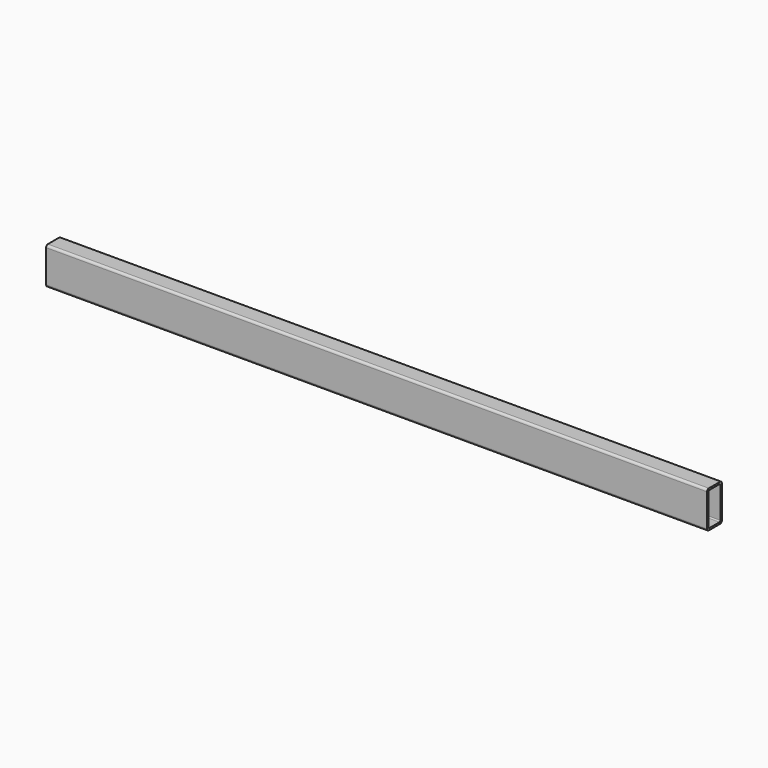
from build123d import *

# Parameters (mm, degrees)
F0_W     = 50
F0_H     = 100
F0_W_2   = 40.000004
F0_H_2   = 90.000004
F1_DEPTH = 890
F2_R     = 3
F3_R     = 6


with BuildPart() as f1:
    # F0 (on Right) → F1 (new body, symmetric)
    with BuildSketch(Plane.YZ):
        Rectangle(F0_W, F0_H)
        Rectangle(F0_W_2, F0_H_2, mode=Mode.SUBTRACT)
    extrude(amount=F1_DEPTH, both=True)

    # F2
    f2_edges = [f1.edges().sort_by_distance(p)[0] for p in [
        (0, 20.000002, 45.000002),
        (0, 20.000002, -45.000002),
        (0, -20.000002, -45.000002),
        (0, -20.000002, 45.000002),
    ]]
    fillet(f2_edges, radius=F2_R)

    # F3
    f3_edges = [f1.edges().sort_by_distance(p)[0] for p in [
        (0, 25, -50),
        (0, 25, 50),
        (0, -25, 50),
        (0, -25, -50),
    ]]
    fillet(f3_edges, radius=F3_R)


solid = f1.part
